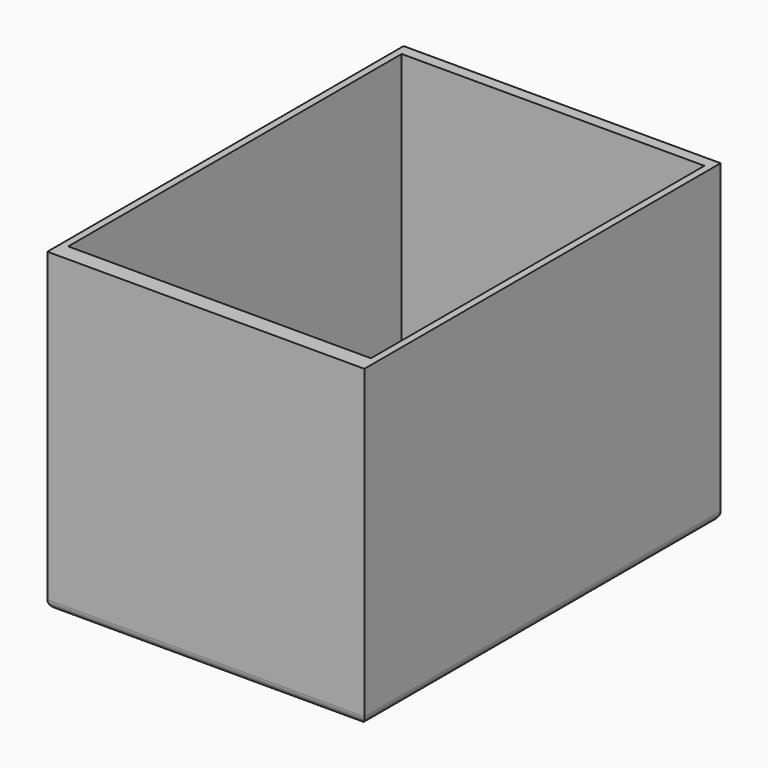
from build123d import *

# Parameters (mm, degrees)
F0_W     = 45.212
F0_H     = 63.5
F1_DEPTH = 1.524
F2_W     = 45.212
F2_H     = 63.5
F2_W_2   = 43.18
F2_H_2   = 59.435986
F3_DEPTH = 43.434
F4_R     = 1.27


with BuildPart() as f1:
    # F0 (on Top) → F1 (new body)
    with BuildSketch(Plane.XY):
        Rectangle(F0_W, F0_H)
    extrude(amount=F1_DEPTH)

    # F2 (on face) → F3 (join)
    with BuildSketch(Plane.XY.offset(1.524)):
        Rectangle(F2_W, F2_H)
        with Locations((0, 0.413703)):
            Rectangle(F2_W_2, F2_H_2, mode=Mode.SUBTRACT)
    extrude(amount=F3_DEPTH)

    # F4
    f4_edges = [f1.edges().sort_by_distance(p)[0] for p in [
        (0, 31.75, 0),
        (-22.606, 0, 0),
        (0, -31.75, 0),
        (22.606, 0, 0),
    ]]
    fillet(f4_edges, radius=F4_R)


solid = f1.part
